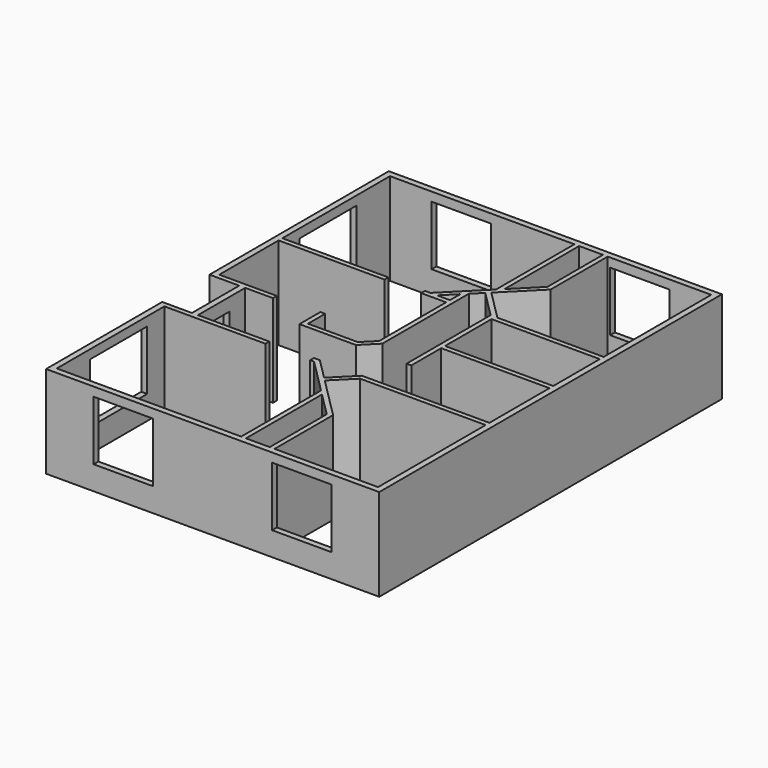
from build123d import *

# Parameters (mm, degrees)
F0_W     = 2773.68
F0_H     = 1490.7768
F1_DEPTH = 2362.2
F2_W     = 1524
F2_H     = 1524
F3_DEPTH = 152.4
F4_W     = 1828.8
F4_H     = 1524
F5_DEPTH = 152.4
F6_W     = 914.4
F6_H     = 2031.7968
F7_DEPTH = 152.4
F8_W     = 1524
F8_H     = 1524
F9_DEPTH = 152.4


with BuildPart() as f1:
    # F0 (on Top) → F1 (new body)
    with BuildSketch(Plane.XY):
        Polygon((0, 10972.8), (-8534.4, 10972.8), (-8534.4, 5232.5016), (-7772.4, 5232.5016), (-7772.4, 3718.56), (-8534.4, 3718.56), (-8534.4, 0), (0, 0), (0, 3718.56), align=None)
        Polygon((-2926.08, 152.4), (-3535.68, 152.4), (-3535.68, 2586.019082), (-2926.08, 1976.419082), align=None, mode=Mode.SUBTRACT)
        Polygon((-2804.16, 2026.92), (-3870.774174, 3093.534174), (-3367.668348, 3596.64), (-152.4, 3596.64), (-152.4, 152.4), (-2804.16, 152.4), align=None, mode=Mode.SUBTRACT)
        Polygon((-152.4, 5641.5432), (-152.4, 3718.56), (-3418.169265, 3718.56), (-3956.984633, 3179.744633), (-4495.8, 3718.56), (-4648.2, 3718.56), (-4648.2, 3596.64), (-4546.300918, 3596.64), (-3657.6, 2707.939082), (-3657.6, 152.4), (-8382, 152.4), (-8382, 3596.64), (-5791.2, 3596.64), (-5791.2, 3718.56), (-7620, 3718.56), (-7620, 5232.5016), (-6908.5968, 5232.5016), (-6908.5968, 5354.4216), (-8382, 5354.4216), (-8382, 7254.24), (-5669.28, 7254.24), (-5669.28, 7376.16), (-8382, 7376.16), (-8382, 10820.4), (-3657.6, 10820.4), (-3657.6, 8310.580918), (-4134.9168, 7833.264118), (-4592.020918, 7376.16), (-4729.5816, 7376.16), (-4729.5816, 7254.24), (-4648.295882, 7254.24), (-4089.5016, 7254.24), (-4089.5016, 5109.876118), (-4393.900918, 4805.4768), (-5669.28, 4805.4768), (-5669.28, 5354.4216), (-5791.2, 5354.4216), (-5791.2, 4683.5568), (-4343.4, 4683.5568), (-3967.5816, 5059.3752), (-3967.5816, 7828.1784), (-3733.8, 8061.96), (-3048, 7376.16), (-3048, 5641.5432), (-3048, 4683.5568), (-2926.08, 4683.5568), (-2926.08, 5641.5432), align=None, mode=Mode.SUBTRACT)
        Polygon((-4089.5016, 7376.16), (-4419.6, 7376.16), (-4089.5016, 7706.2584), align=None, mode=Mode.SUBTRACT)
        with Locations((-1539.24, 6508.8516)):
            Rectangle(F0_W, F0_H, mode=Mode.SUBTRACT)
        Polygon((-2926.08, 9042.100918), (-3535.68, 8432.500918), (-3535.68, 10820.4), (-2926.08, 10820.4), align=None, mode=Mode.SUBTRACT)
        Polygon((-152.4, 7376.16), (-2875.579082, 7376.16), (-3647.589541, 8148.170459), (-2804.16, 8991.6), (-2804.16, 10820.4), (-152.4, 10820.4), align=None, mode=Mode.SUBTRACT)
    extrude(amount=F1_DEPTH)

    # F2 (on face) → F3 (cut)
    with BuildSketch(Plane.XZ):
        with Locations((-6553.2, 1371.6)):
            Rectangle(F2_W, F2_H)
        with Locations((-1981.2, 1371.6)):
            Rectangle(F2_W, F2_H)
    extrude(amount=-F3_DEPTH, mode=Mode.SUBTRACT)

    # F4 (on face) → F5 (cut)
    with BuildSketch(Plane(origin=(-8534.4, 0, 0), x_dir=(0, -1, 0), z_dir=(-1, 0, 0))):
        with Locations((-8839.2, 1371.6)):
            Rectangle(F4_W, F4_H)
        with Locations((-2133.6, 1371.6)):
            Rectangle(F4_W, F4_H)
    extrude(amount=-F5_DEPTH, mode=Mode.SUBTRACT)

    # F6 (on face) → F7 (cut)
    with BuildSketch(Plane(origin=(-7772.4, 0, 0), x_dir=(0, -1, 0), z_dir=(-1, 0, 0))):
        with Locations((-4277.2584, 1015.8984)):
            Rectangle(F6_W, F6_H)
    extrude(amount=-F7_DEPTH, mode=Mode.SUBTRACT)

    # F8 (on face) → F9 (cut)
    with BuildSketch(Plane(origin=(0, 10972.8, 0), x_dir=(-1, 0, 0), z_dir=(0, 1, 0))):
        with Locations((6553.2, 1371.6)):
            Rectangle(F8_W, F8_H)
        with Locations((1981.2, 1371.6)):
            Rectangle(F8_W, F8_H)
    extrude(amount=-F9_DEPTH, mode=Mode.SUBTRACT)


solid = f1.part
